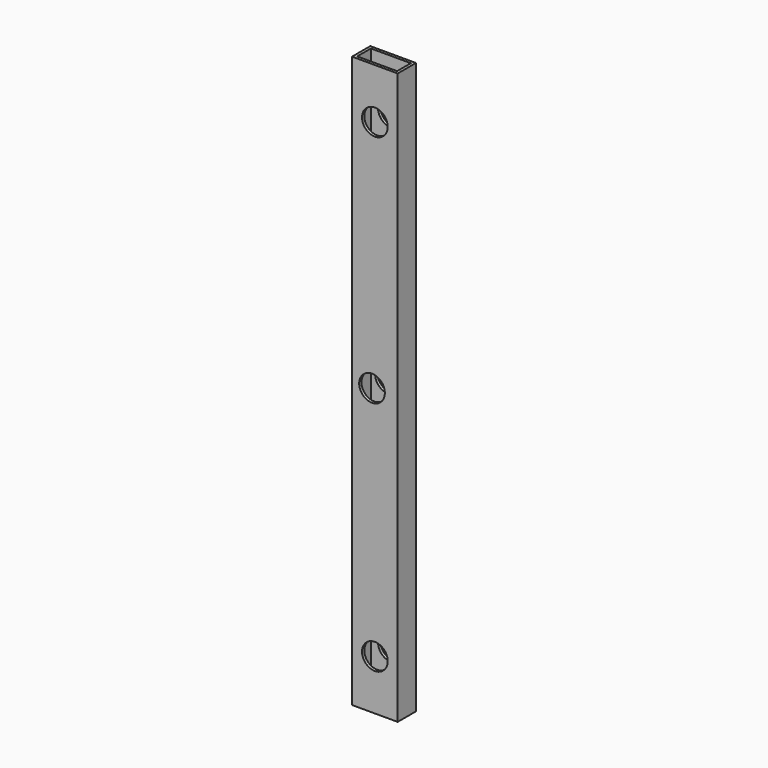
from build123d import *

# Parameters (mm, degrees)
F0_W     = 50.8
F0_H     = 25.4
F0_W_2   = 44.45
F0_H_2   = 19.05
F1_DEPTH = 635
F2_R     = 14.2875
F3_DEPTH = 25.401


with BuildPart() as f1:
    # F0 (on Top) → F1 (new body)
    with BuildSketch(Plane.XY):
        with Locations((-25.4, -12.7)):
            Rectangle(F0_W, F0_H)
        with Locations((-25.4, -12.7)):
            Rectangle(F0_W_2, F0_H_2, mode=Mode.SUBTRACT)
    extrude(amount=F1_DEPTH)

    # F2 (on face) → F3 (cut, through all)
    with BuildSketch(Plane(origin=(0, 0, 0), x_dir=(-1, 0, 0), z_dir=(0, 1, 0))):
        with Locations((25.4, 55.869038)):
            Circle(F2_R)
        with Locations((25.4, 579.130962)):
            Circle(F2_R)
        with Locations((28.575, 317.5)):
            Circle(F2_R)
    extrude(amount=-F3_DEPTH, mode=Mode.SUBTRACT)


solid = f1.part
